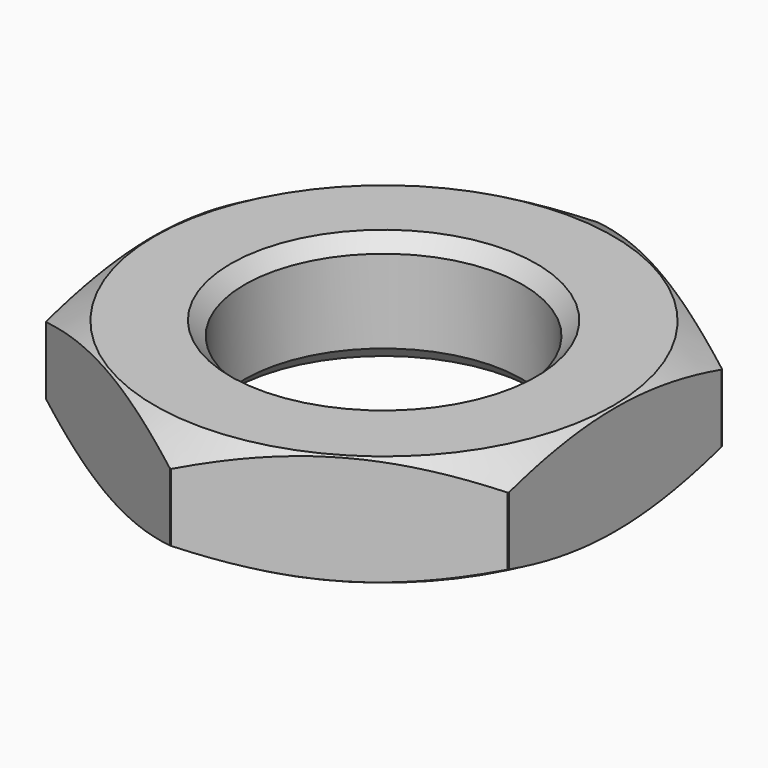
from build123d import *

# Parameters (mm, degrees)
SKETCH001_R     = 10.612882
POCKET_DEPTH    = 4.001
SKETCH002_R     = 5
POCKET001_DEPTH = 4.001
CHAMFER_SIZE    = 0.5


with BuildPart() as part:
    # Sketch → Revolution (revolve)
    with BuildSketch(Plane.XZ):
        Polygon((0, 4), (8.25, 4), (9.6, 3.220577), (9.6, 0.779423), (8.25, 0), (0, 0), align=None)
    revolve(axis=Axis((0, 0, 0), (0, 0, 1)))

    # Sketch001 → Pocket (cut, through all)
    with BuildSketch(Plane(origin=(0, 0, 4), x_dir=(-1, 0, 0), z_dir=(0, 0, 1))):
        Circle(SKETCH001_R)
        Polygon((-8.325, 4.806441), (0, 9.612882), (8.325, 4.806441), (8.325, -4.806441), (0, -9.612882), (-8.325, -4.806441), align=None, mode=Mode.SUBTRACT)
    extrude(amount=-POCKET_DEPTH, mode=Mode.SUBTRACT)

    # Sketch002 → Pocket001 (cut, through all)
    with BuildSketch(Plane(origin=(0, 0, 4), x_dir=(-1, 0, 0), z_dir=(0, 0, 1))):
        with Locations((0.036806, -0.027604)):
            Circle(SKETCH002_R)
    extrude(amount=-POCKET001_DEPTH, mode=Mode.SUBTRACT)

    # Chamfer
    chamfer_edges = [part.edges().sort_by_distance(p)[0] for p in [
        (4.963194, 0.027604, 4),
        (4.963194, 0.027604, 0),
    ]]
    chamfer(chamfer_edges, length=CHAMFER_SIZE)


solid = part.part
